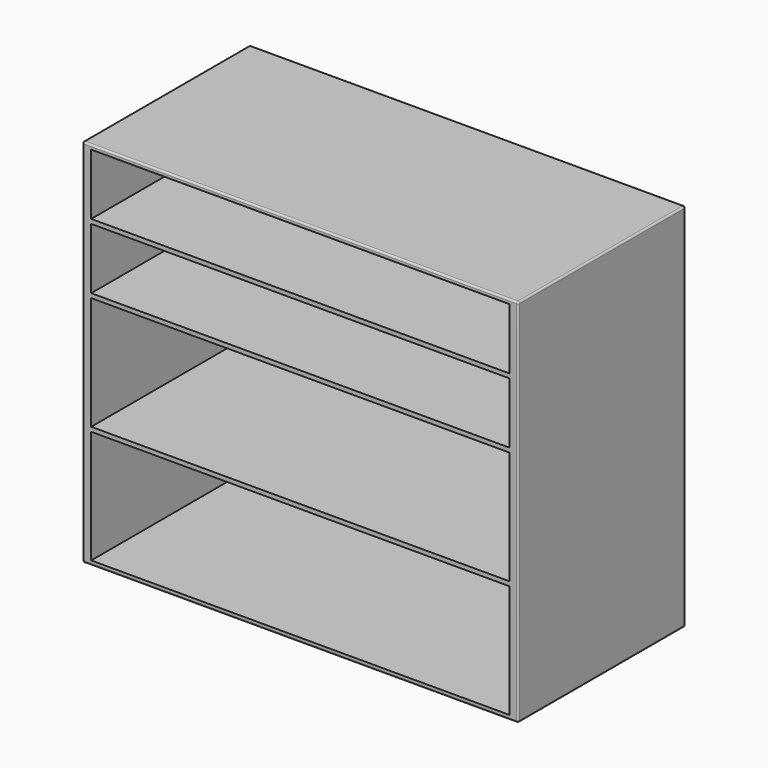
from build123d import *

# Parameters (mm, degrees)
F0_W      = 609.6
F0_H      = 1079.5
F1_DEPTH  = 25.4
F2_W      = 609.6
F2_H      = 12.7
F3_DEPTH  = 609.6
F4_W      = 609.6
F4_H      = 12.7
F5_DEPTH  = 609.6
F6_W      = 609.6
F6_H      = 12.7
F7_DEPTH  = 609.6
F8_W      = 609.6
F8_H      = 12.7
F9_DEPTH  = 609.6
F10_W     = 609.6
F10_H     = 12.7
F11_DEPTH = 609.6
F13_R     = 5.08
F14_R     = 5.08
F15_R     = 5.08
F16_R     = 5.08
F17_R     = 5.08
F18_R     = 5.08


with BuildPart() as f1:
    # F0 (on Right) → F1 (new body)
    with BuildSketch(Plane.YZ):
        with Locations((304.8, 539.75)):
            Rectangle(F0_W, F0_H)
    extrude(amount=F1_DEPTH)

    # F2 (on face) → F3 (join)
    with BuildSketch(Plane.YZ.offset(25.4)):
        with Locations((304.8, 6.35)):
            Rectangle(F2_W, F2_H)
    extrude(amount=F3_DEPTH)

    # F4 (on face) → F5 (join)
    with BuildSketch(Plane.YZ.offset(25.4)):
        with Locations((304.8, 349.25)):
            Rectangle(F4_W, F4_H)
    extrude(amount=F5_DEPTH)

    # F6 (on face) → F7 (join)
    with BuildSketch(Plane.YZ.offset(25.4)):
        with Locations((304.8, 692.15)):
            Rectangle(F6_W, F6_H)
    extrude(amount=F7_DEPTH)

    # F8 (on face) → F9 (join)
    with BuildSketch(Plane.YZ.offset(25.4)):
        with Locations((304.8, 882.65)):
            Rectangle(F8_W, F8_H)
    extrude(amount=F9_DEPTH)

    # F10 (on face) → F11 (join)
    with BuildSketch(Plane.YZ.offset(25.4)):
        with Locations((304.8, 1073.15)):
            Rectangle(F10_W, F10_H)
    extrude(amount=F11_DEPTH)

    # F12: F1 across face


with BuildPart() as f1_1:
    add(f1.part)
    add(f1.part.mirror(Plane(origin=(635, 304.8, 6.35), x_dir=(0, 1, 0), z_dir=(1, 0, 0))))

    # F13
    f13_edges = [f1_1.edges().sort_by_distance(p)[0] for p in [
        (0, 304.8, 1079.5),
    ]]
    fillet(f13_edges, radius=F13_R)

    # F14
    f14_edges = [f1_1.edges().sort_by_distance(p)[0] for p in [
        (1270, 304.8, 1079.5),
    ]]
    fillet(f14_edges, radius=F14_R)

    # F15
    f15_edges = [f1_1.edges().sort_by_distance(p)[0] for p in [
        (1270, 304.8, 0),
    ]]
    fillet(f15_edges, radius=F15_R)

    # F16
    f16_edges = [f1_1.edges().sort_by_distance(p)[0] for p in [
        (0, 304.8, 0),
    ]]
    fillet(f16_edges, radius=F16_R)

    # F17
    f17_edges = [f1_1.edges().sort_by_distance(p)[0] for p in [
        (635, 0, 1079.5),
    ]]
    fillet(f17_edges, radius=F17_R)

    # F18
    f18_edges = [f1_1.edges().sort_by_distance(p)[0] for p in [
        (635, 609.6, 1079.5),
    ]]
    fillet(f18_edges, radius=F18_R)


solid = f1_1.part
